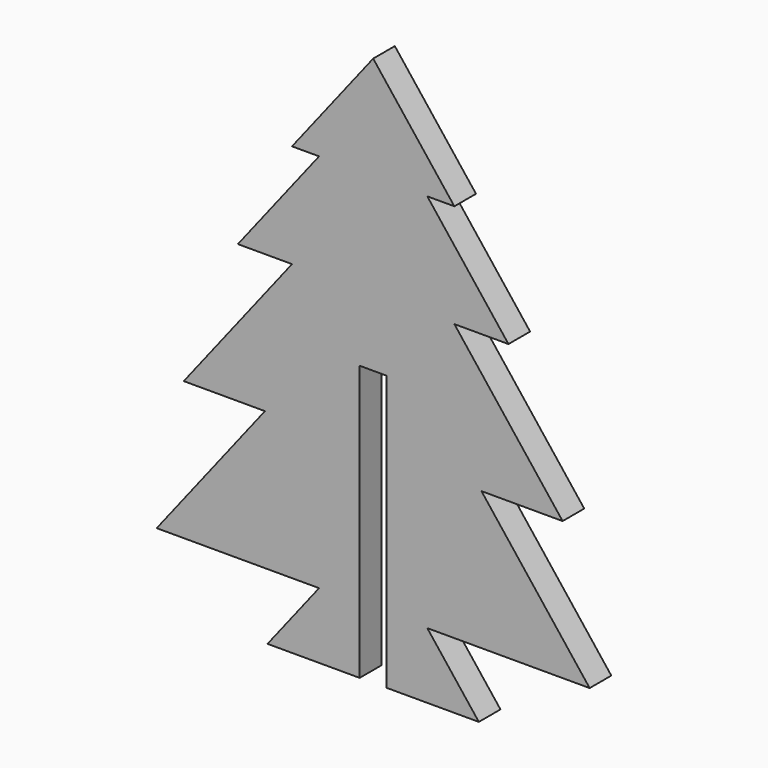
from build123d import *

# Parameters (mm, degrees)
F0_W     = 10.0047563096
F0_H     = 12.1665462216
F1_DEPTH = 5
F2_W     = 2.5
F2_H     = 50.8
F3_DEPTH = 25


with BuildPart() as f1:
    # F0 (on Front) → F1 (new body)
    with BuildSketch(Plane.XZ):
        with Locations((-15.5814673178, -15.7029034832)):
            Rectangle(F0_W, F0_H)
        with Locations((-25.5862236274, -15.7029034832)):
            Rectangle(F0_W, F0_H)
        Polygon((-10.579089163, -9.6196303724), (-10.579089163, -21.786176594), (-1.0517448133, -21.786176594), align=None)
        Polygon((-40.1159461319, -21.786176594), (-30.5886017822, -21.786176594), (-30.5886017822, -9.6196303724), align=None)
        Polygon((-20.5838454726, 15.9327849929), (-20.5838454726, -9.6196303724), (-10.579089163, -9.6196303724), (19.4351797657, -9.6196303724), (-0.5743328534, 15.9327849929), align=None)
        Polygon((-30.5886017822, -9.6196303724), (-20.5838454726, -9.6196303724), (-20.5838454726, 15.9327849929), (-40.5933580917, 15.9327849929), (-60.6028707109, -9.6196303724), align=None)
        Polygon((-20.5838454726, 41.4852003581), (-20.5838454726, 15.9327849929), (-0.5743328534, 15.9327849929), (14.4328016109, 15.9327849929), (-5.5767110082, 41.4852003581), align=None)
        Polygon((-40.5933580917, 15.9327849929), (-20.5838454726, 15.9327849929), (-20.5838454726, 41.4852003581), (-35.5909799369, 41.4852003581), (-55.6004925561, 15.9327849929), align=None)
        Polygon((-35.5909799369, 41.4852003581), (-20.5838454726, 41.4852003581), (-5.5767110082, 41.4852003581), (4.4280453014, 41.4852003581), (-10.579089163, 60.6495118821), (-30.5886017822, 60.6495118821), (-45.5957362465, 41.4852003581), align=None)
        Polygon((-30.5886017822, 60.6495118821), (-10.579089163, 60.6495118821), (-5.5767110082, 60.6495118821), (-20.5838454726, 79.813823406), (-35.5909799369, 60.6495118821), align=None)
    extrude(amount=F1_DEPTH)

    # F2 (on face) → F3 (cut)
    with BuildSketch(Plane.XZ.offset(5)):
        with Locations((-21.8338454726, 3.613823406)):
            Rectangle(F2_W, F2_H)
        with Locations((-19.3338454726, 3.613823406)):
            Rectangle(F2_W, F2_H)
    extrude(amount=-F3_DEPTH, mode=Mode.SUBTRACT)


solid = f1.part
